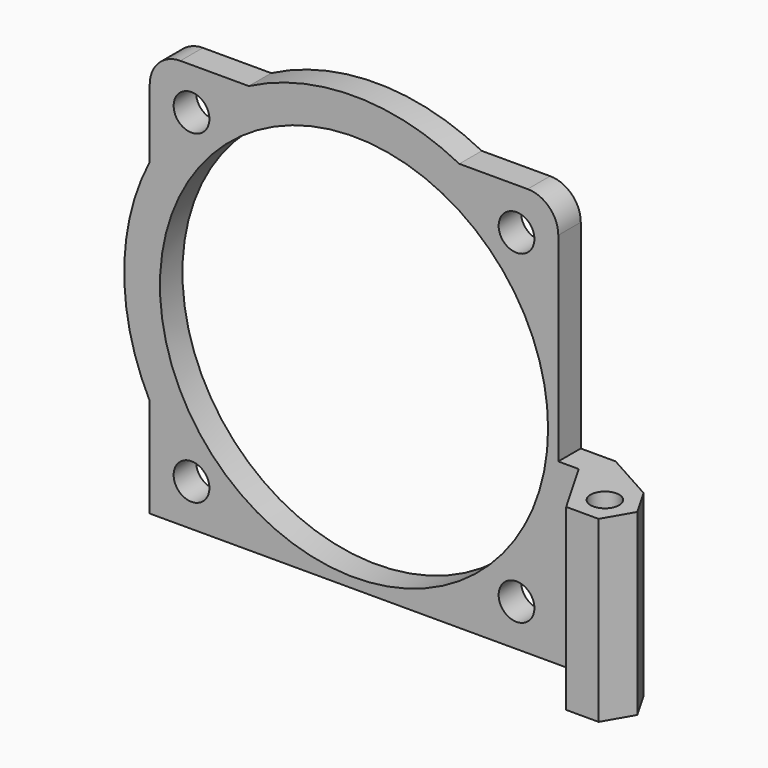
from build123d import *

# Parameters (mm, degrees)
F0_R     = 1.4
F1_DEPTH = 40
F2_W     = 3.4122867597
F2_H     = 22.5
F3_DEPTH = 25
F5_DEPTH = 2.75
F4_R     = 1.75
F4_R_2   = 19
F6_DEPTH = 25


with BuildPart() as f1:
    # F0 (on Top) → F1 (new body)
    with BuildSketch(Plane.XY):
        Polygon((-1.5877132403, -2.75), (1.5877132403, -2.75), (3.17543, 0), (1.5877132403, 2.75), (-3.3508529611, 5.5), (-46.7631397208, 5.5), (-46.7631397208, 2.75), (-4.7631397208, 2.75), (-3.1754264805, 0), align=None)
        Circle(F0_R, mode=Mode.SUBTRACT)
    extrude(amount=F1_DEPTH)

    # F2 (on face) → F3 (cut)
    with BuildSketch(Plane(origin=(0, 5.5, 0), x_dir=(-1, 0, 0), z_dir=(0, 1, 0))):
        Polygon((6.7631397208, 40.8263410057), (-4.1816732138, 40.8263410057), (-4.1816732138, 17.5), (3.3508529611, 17.5), (3.3508529611, 40), (6.7631397208, 40), align=None)
        with Locations((5.056996341, 28.75)):
            Rectangle(F2_W, F2_H)
    extrude(amount=-F3_DEPTH, mode=Mode.SUBTRACT)

    # F4 (on face) → F5 (join)
    with BuildSketch(Plane.XZ.offset(-2.75)):
        with BuildLine():
            Line((-46.7631397208, 9.692235936), (-46.7631397208, 30.307764064))
            ThreePointArc((-46.7631397208, 30.307764064), (-49.2631397208, 20), (-46.7631397208, 9.692235936))
        make_face()
        with BuildLine():
            ThreePointArc((-16.4553756568, 40), (-26.7631397208, 42.5), (-37.0709037849, 40))
            Line((-37.0709037849, 40), (-16.4553756568, 40))
        make_face()
    extrude(amount=-F5_DEPTH)

    # F4 (on face) → F6 (cut)
    with BuildSketch(Plane.XZ.offset(-2.75)):
        with BuildLine():
            Line((-6.7631397208, 40), (-9.7631397208, 40))
            ThreePointArc((-9.7631397208, 40), (-7.6418193773, 39.1213203436), (-6.7631397208, 37))
            Line((-6.7631397208, 37), (-6.7631397208, 40))
        make_face()
        with BuildLine():
            ThreePointArc((-46.7631397208, 37), (-45.8844600644, 39.1213203436), (-43.7631397208, 40))
            Line((-43.7631397208, 40), (-46.7631397208, 40))
            Line((-46.7631397208, 40), (-46.7631397208, 37))
        make_face()
        with Locations((-42.6730422975, 35.9099025767)):
            Circle(F4_R)
        with Locations((-42.6730422975, 4.0900974233)):
            Circle(F4_R)
        with Locations((-10.8532371441, 4.0900974233)):
            Circle(F4_R)
        with Locations((-10.8532371441, 35.9099025767)):
            Circle(F4_R)
        with Locations((-26.7631397208, 20)):
            Circle(F4_R_2)
    extrude(amount=-F6_DEPTH, mode=Mode.SUBTRACT)


solid = f1.part
